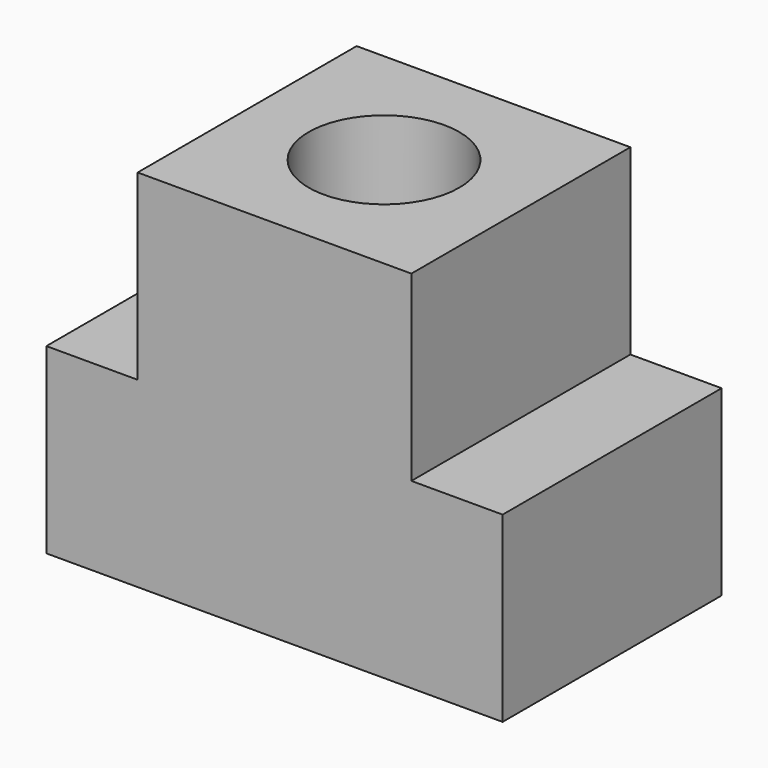
from build123d import *

# Parameters (mm, degrees)
F0_W     = 15
F0_H     = 15
F0_R     = 4.127736
F1_DEPTH = 20
F0_W_2   = 5
F2_DEPTH = 10


with BuildPart() as f1:
    # F0 (on Top) → F1 (new body)
    with BuildSketch(Plane.XY):
        Rectangle(F0_W, F0_H)
        Circle(F0_R, mode=Mode.SUBTRACT)
    extrude(amount=F1_DEPTH)

    # F0 (on Top) → F2 (join)
    with BuildSketch(Plane.XY):
        with Locations((10, 0)):
            Rectangle(F0_W_2, F0_H)
        with Locations((-10, 0)):
            Rectangle(F0_W_2, F0_H)
    extrude(amount=F2_DEPTH)


solid = f1.part
